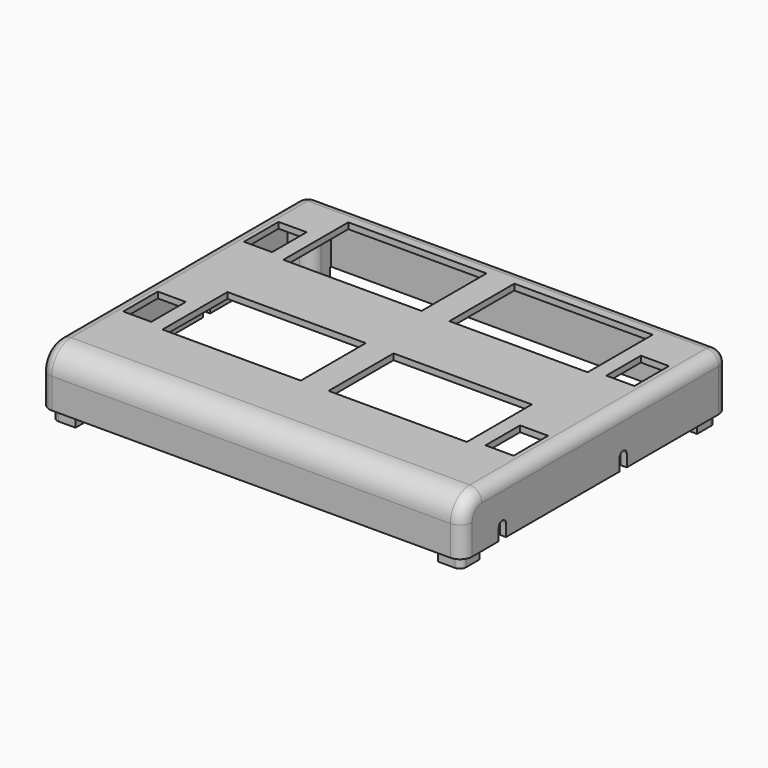
from build123d import *

# Parameters (mm, degrees)
SKETCH_W        = 140
SKETCH_H        = 110
PAD_DEPTH       = 18
SKETCH001_W     = 136
SKETCH001_H     = 106
POCKET_DEPTH    = 16
SKETCH002_R     = 1.1
PAD001_DEPTH    = 20
SKETCH003_W     = 45.8
SKETCH003_H     = 26.9
SKETCH003_W_2   = 9.3
SKETCH003_H_2   = 14.3
POCKET001_DEPTH = 2
SKETCH004_W     = 17
SKETCH004_H     = 8
SKETCH004_W_2   = 8.5
PAD002_DEPTH    = 6.5
SKETCH005_W     = 52
SKETCH005_H     = 2
POCKET002_DEPTH = 3.9
POCKET003_DEPTH = 140.001
SKETCH013_W     = 9.4
SKETCH013_H     = 2
PAD006_DEPTH    = 2
SKETCH016_W     = 140
SKETCH016_H     = 110
SKETCH016_W_2   = 135.4
SKETCH016_H_2   = 105.4
POCKET008_DEPTH = 4.001
FILLET003_R     = 2
FILLET004_R     = 6
FILLET005_R     = 8
FILLET006_R     = 4


with BuildPart() as part:
    # Sketch → Pad (new body)
    with BuildSketch(Plane.XY):
        with Locations((50, -22)):
            Rectangle(SKETCH_W, SKETCH_H)
    extrude(amount=-PAD_DEPTH)

    # Sketch001 (on Face6 of Pad) → Pocket (cut)
    with BuildSketch(Plane(origin=(0, 0, -18), x_dir=(1, 0, 0), z_dir=(0, 0, -1))):
        with Locations((50, 22)):
            Rectangle(SKETCH001_W, SKETCH001_H)
    extrude(amount=-POCKET_DEPTH, mode=Mode.SUBTRACT)

    # Sketch002 (on Face11 of Pocket) → Pad001 (join)
    with BuildSketch(Plane(origin=(0, 0, -2), x_dir=(1, 0, 0), z_dir=(0, 0, -1))):
        with BuildLine():
            Line((-18, 75), (-18, 67))
            Line((-18, 67), (-14, 67))
            ThreePointArc((-14, 67), (-11.171573, 68.171573), (-10, 71))
            Line((-10, 75), (-10, 71))
            Line((-18, 75), (-10, 75))
        make_face()
        with Locations((-14, 71)):
            Circle(SKETCH002_R, mode=Mode.SUBTRACT)
        with BuildLine():
            Line((-18, -31), (-10, -31))
            Line((-10, -31), (-10, -27))
            ThreePointArc((-10, -27), (-11.171573, -24.171573), (-14, -23))
            Line((-18, -23), (-14, -23))
            Line((-18, -31), (-18, -23))
        make_face()
        with Locations((-14, -27)):
            Circle(SKETCH002_R, mode=Mode.SUBTRACT)
        with BuildLine():
            Line((118, 75), (110, 75))
            Line((110, 75), (110, 71))
            ThreePointArc((110, 71), (111.171573, 68.171573), (114, 67))
            Line((118, 67), (114, 67))
            Line((118, 75), (118, 67))
        make_face()
        with Locations((114, 71)):
            Circle(SKETCH002_R, mode=Mode.SUBTRACT)
        with BuildLine():
            Line((118, -31), (110, -31))
            Line((110, -31), (110, -27))
            ThreePointArc((114, -23), (111.171573, -24.171573), (110, -27))
            Line((118, -23), (114, -23))
            Line((118, -31), (118, -23))
        make_face()
        with Locations((114, -27)):
            Circle(SKETCH002_R, mode=Mode.SUBTRACT)
    extrude(amount=PAD001_DEPTH)

    # Sketch003 (on Face4 of Pad001) → Pocket001 (cut)
    with BuildSketch(Plane.XY):
        with Locations((22.5, 12.75)):
            Rectangle(SKETCH003_W, SKETCH003_H)
        with Locations((77.5, 12.75)):
            Rectangle(SKETCH003_W, SKETCH003_H)
        with Locations((22.5, -37.25)):
            Rectangle(SKETCH003_W, SKETCH003_H)
        with Locations((77.5, -37.25)):
            Rectangle(SKETCH003_W, SKETCH003_H)
        with Locations((-10, 8)):
            Rectangle(SKETCH003_W_2, SKETCH003_H_2)
        with Locations((110, 8)):
            Rectangle(SKETCH003_W_2, SKETCH003_H_2)
        with Locations((-10, -42)):
            Rectangle(SKETCH003_W_2, SKETCH003_H_2)
        with Locations((110, -42)):
            Rectangle(SKETCH003_W_2, SKETCH003_H_2)
    extrude(amount=-POCKET001_DEPTH, mode=Mode.SUBTRACT)

    # Sketch004 (on Face51 of Pocket001) → Pad002 (join)
    with BuildSketch(Plane(origin=(0, 0, -2), x_dir=(1, 0, 0), z_dir=(0, 0, -1))):
        with Locations((50, 56.8)):
            Rectangle(SKETCH004_W, SKETCH004_H)
        with Locations((50, 6.8)):
            Rectangle(SKETCH004_W, SKETCH004_H)
        with Locations((-6.75, 56.8)):
            Rectangle(SKETCH004_W_2, SKETCH004_H)
        with Locations((106.75, 56.8)):
            Rectangle(SKETCH004_W_2, SKETCH004_H)
        with Locations((-6.75, 6.8)):
            Rectangle(SKETCH004_W_2, SKETCH004_H)
        with Locations((106.75, 6.8)):
            Rectangle(SKETCH004_W_2, SKETCH004_H)
    extrude(amount=PAD002_DEPTH)

    # Sketch005 (on Face96 of Pad002) → Pocket002 (cut)
    with BuildSketch(Plane(origin=(0, 0, -8.5), x_dir=(1, 0, 0), z_dir=(0, 0, -1))):
        with Locations((19.5, 56.8)):
            Rectangle(SKETCH005_W, SKETCH005_H)
        with Locations((19.5, 6.8)):
            Rectangle(SKETCH005_W, SKETCH005_H)
        with Locations((80.5, 56.8)):
            Rectangle(SKETCH005_W, SKETCH005_H)
        with Locations((80.5, 6.8)):
            Rectangle(SKETCH005_W, SKETCH005_H)
    extrude(amount=-POCKET002_DEPTH, mode=Mode.SUBTRACT)

    # Sketch006 (on Face2 of Pocket002) → Pocket003 (cut, through all)
    with BuildSketch(Plane(origin=(-20, 0, 0), x_dir=(0, -1, 0), z_dir=(-1, 0, 0))):
        with BuildLine():
            Line((9, -14), (9, -18))
            Line((9, -18), (12, -18))
            Line((12, -14), (12, -18))
            ThreePointArc((12, -14), (10.5, -12.5), (9, -14))
        make_face()
        with BuildLine():
            Line((59, -14), (59, -18))
            Line((59, -18), (62, -18))
            Line((62, -18), (62, -14))
            ThreePointArc((62, -14), (60.5, -12.5), (59, -14))
        make_face()
    extrude(amount=-POCKET003_DEPTH, mode=Mode.SUBTRACT)

    # Sketch013 (on Face13 of Pocket003) → Pad006 (join)
    with BuildSketch(Plane(origin=(0, 0, -18), x_dir=(1, 0, 0), z_dir=(0, 0, -1))):
        with Locations((50, 76)):
            Rectangle(SKETCH013_W, SKETCH013_H)
    extrude(amount=PAD006_DEPTH)

    # Sketch016 (on Face13 of Pad006) → Pocket008 (cut, through all)
    with BuildSketch(Plane(origin=(0, 0, -18), x_dir=(1, 0, 0), z_dir=(0, 0, -1))):
        with Locations((50, 22)):
            Rectangle(SKETCH016_W, SKETCH016_H)
        with Locations((50, 22)):
            Rectangle(SKETCH016_W_2, SKETCH016_H_2, mode=Mode.SUBTRACT)
    extrude(amount=POCKET008_DEPTH, mode=Mode.SUBTRACT)

    # Fillet003
    fillet003_edges = [part.edges().sort_by_distance(p)[0] for p in [
        (-18, -22, -2),
        (118, -22, -2),
        (50, 31, -2),
        (-17.7, -74.7, -20),
        (-17.7, 30.7, -20),
        (117.7, 30.7, -20),
        (117.7, -74.7, -20),
        (-11, -2.8, -5.25),
        (-2.5, -2.8, -5.25),
        (41.5, -2.8, -5.25),
        (58.5, -2.8, -5.25),
        (102.5, -2.8, -5.25),
        (111, -2.8, -5.25),
        (111, -52.8, -5.25),
        (102.5, -52.8, -5.25),
        (58.5, -52.8, -5.25),
        (41.5, -52.8, -5.25),
        (-2.5, -52.8, -5.25),
        (-11, -52.8, -5.25),
        (-11, -10.8, -5.25),
        (-2.5, -10.8, -5.25),
        (41.5, -10.8, -5.25),
        (58.5, -10.8, -5.25),
        (102.5, -10.8, -5.25),
        (111, -10.8, -5.25),
        (-2.5, -60.8, -5.25),
        (41.5, -60.8, -5.25),
        (58.5, -60.8, -5.25),
        (102.5, -60.8, -5.25),
        (-11, -60.8, -5.25),
        (111, -60.8, -5.25),
    ]]
    fillet(fillet003_edges, radius=FILLET003_R)

    # Fillet004
    fillet004_edges = [part.edges().sort_by_distance(p)[0] for p in [
        (50, -75, -2),
    ]]
    fillet(fillet004_edges, radius=FILLET004_R)

    # Fillet005
    fillet005_edges = [part.edges().sort_by_distance(p)[0] for p in [
        (50, -77, 0),
    ]]
    fillet(fillet005_edges, radius=FILLET005_R)

    # Fillet006
    fillet006_edges = [part.edges().sort_by_distance(p)[0] for p in [
        (-20, -18, 0),
        (50, 33, 0),
        (120, -18, 0),
        (-20, -77, -13),
        (120, -77, -13),
        (-20, 33, -9),
        (120, 33, -9),
    ]]
    fillet(fillet006_edges, radius=FILLET006_R)


with BuildPart() as part_1:
    # Body placement: moved
    add(part.part.moved(Location((0, 0, 15))))


solid = part_1.part
